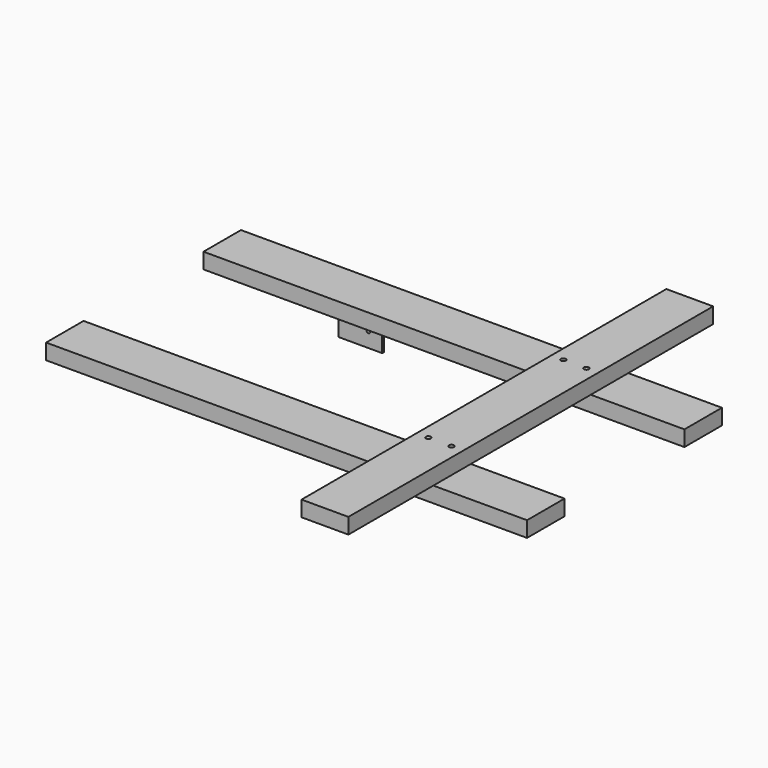
from build123d import *

# Parameters (mm, degrees)
F0_W      = 545
F0_H      = 75
F0_W_2    = 75
F0_W_3    = 150
F1_DEPTH  = 25
F0_H_2    = 170
F0_H_3    = 240
F2_DEPTH  = 25
F3_D      = 8
F3_2_D    = 8
F4_D      = 8
F7_DEPTH  = 65
F9_D      = 6
F10_DEPTH = 65
F12_D     = 6
F16_DEPTH = 70
F17_DEPTH = 70
F19_D     = 6
F21_D     = 6


with BuildPart() as f1:
    # F0 (on Top) → F1 (new body)
    with BuildSketch(Plane.XY):
        with Locations((-201.6004703326, 157.5)):
            Rectangle(F0_W, F0_H)
        with Locations((108.3995296674, 157.5)):
            Rectangle(F0_W_2, F0_H)
        with Locations((220.8995296674, 157.5)):
            Rectangle(F0_W_3, F0_H)
    extrude(amount=-F1_DEPTH)

    # F3 (through all)
    with Locations(Plane.XY):
        with Locations((89.8995296674, 135), (126.8995296674, 135), (89.8995296674, -135), (126.8995296674, -135)):
            Hole(F3_D / 2)


with BuildPart() as f1b:
    # F0 (on Top) → F1, piece 2 (new body)
    with BuildSketch(Plane.XY):
        with Locations((-201.6004703326, -157.5)):
            Rectangle(F0_W, F0_H)
        with Locations((108.3995296674, -157.5)):
            Rectangle(F0_W_2, F0_H)
        with Locations((220.8995296674, -157.5)):
            Rectangle(F0_W_3, F0_H)
    extrude(amount=-F1_DEPTH)

    # F3#2 (through all)
    with Locations(Plane.XY):
        with Locations((89.8995296674, 135), (126.8995296674, 135), (89.8995296674, -135), (126.8995296674, -135)):
            Hole(F3_2_D / 2)


with BuildPart() as f2:
    # F0 (on Top) → F2 (new body)
    with BuildSketch(Plane.XY):
        with Locations((108.3995296674, 157.5)):
            Rectangle(F0_W_2, F0_H)
        with Locations((108.3995296674, 280)):
            Rectangle(F0_W_2, F0_H_2)
        with Locations((108.3995296674, 0)):
            Rectangle(F0_W_2, F0_H_3)
        with Locations((108.3995296674, -157.5)):
            Rectangle(F0_W_2, F0_H)
        with Locations((108.3995296674, -280)):
            Rectangle(F0_W_2, F0_H_2)
    extrude(amount=F2_DEPTH)

    # F4 (through all)
    with Locations(Plane(origin=(0, 0, 0), x_dir=(1, 0, 0), z_dir=(0, 0, -1))):
        with Locations((126.8995296674, 135), (89.8995296674, 135), (126.8995296674, -135), (89.8995296674, -135)):
            Hole(F4_D / 2)


with BuildPart() as f7:
    # F6 (on Right) → F7 (new body)
    with BuildSketch(Plane.YZ):
        Polygon((187, -29), (187, -25), (137, -25), (137, -60), (141, -60), (141, -29), align=None)
    extrude(amount=F7_DEPTH)

    # F9 (through all)
    with Locations(Plane.XZ.offset(-137)):
        with Locations((32.5, -40)):
            Hole(F9_D / 2)


with BuildPart() as f10:
    # F5 (on Right) → F10 (new body)
    with BuildSketch(Plane.YZ):
        Polygon((-141, -60), (-137, -60), (-137, -25), (-187, -25), (-187, -29), (-141, -29), align=None)
    extrude(amount=F10_DEPTH)

    # F12 (through all)
    with Locations(Plane(origin=(0, -137, 0), x_dir=(-1, 0, 0), z_dir=(0, 1, 0))):
        with Locations((-32.5, -40)):
            Hole(F12_D / 2)


with BuildPart() as f16:
    # F14 (on offset) → F16 (new body)
    with BuildSketch(Plane.YZ.offset(-200)):
        Polygon((-139, -60), (-135, -60), (-135, -25), (-185, -25), (-185, -29), (-139, -29), align=None)
    extrude(amount=-F16_DEPTH)

    # F19 (through all)
    with Locations(Plane(origin=(0, -135, 0), x_dir=(-1, 0, 0), z_dir=(0, 1, 0))):
        with Locations((222, -36)):
            Hole(F19_D / 2)


with BuildPart() as f17:
    # F15 (on offset) → F17 (new body)
    with BuildSketch(Plane.YZ.offset(-200)):
        Polygon((185, -29), (185, -25), (135, -25), (135, -60), (139, -60), (139, -29), align=None)
    extrude(amount=-F17_DEPTH)

    # F21 (through all)
    with Locations(Plane.XZ.offset(-135)):
        with Locations((-222, -36)):
            Hole(F21_D / 2)


solid = Compound([f1.part, f1b.part, f2.part, f7.part, f10.part, f16.part, f17.part])
